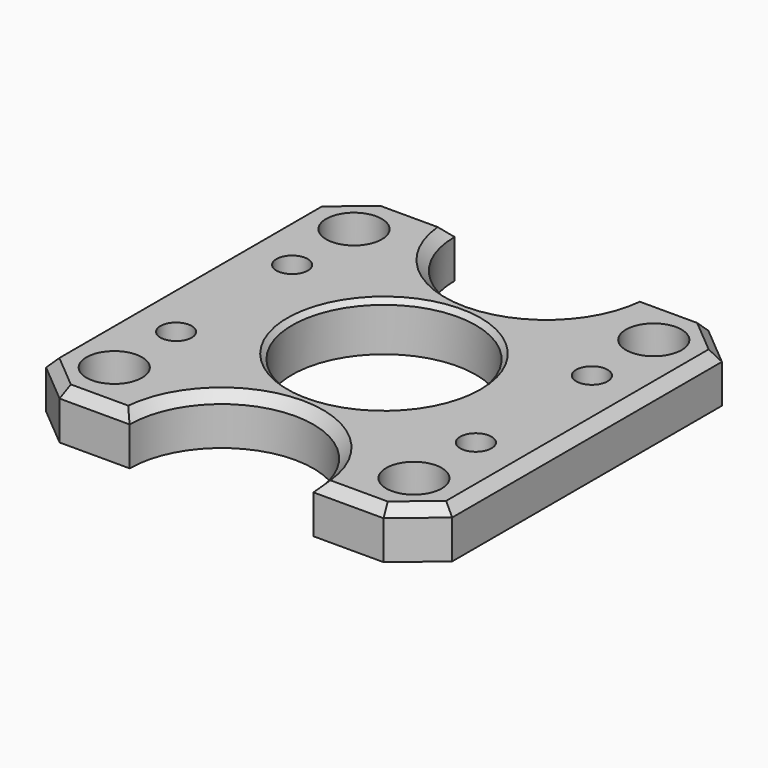
from build123d import *

# Parameters (mm, degrees)
SKETCH_R        = 9.5
SKETCH_R_2      = 1.75
PAD_DEPTH       = 5
POCKET_DEPTH    = 3
SKETCH002_R     = 1.625
POCKET001_DEPTH = 5.001
SKETCH003_R     = 2.875
POCKET002_DEPTH = 4.5
CHAMFER_SIZE    = 1
CHAMFER002_SIZE = 0.5


with BuildPart() as part:
    # Sketch → Pad (new body)
    with BuildSketch(Plane.XY):
        with BuildLine():
            Line((16.75, 21), (21, 17.433827))
            Line((21, 17.433827), (21, 0))
            Line((21, -17.433827), (21, 0))
            Line((16.75, -21), (21, -17.433827))
            Line((16.75, -21), (9.5, -21))
            ThreePointArc((9.5, -21), (0, -11.5), (-9.5, -21))
            Line((-16.75, -21), (-9.5, -21))
            Line((-21, -17.433827), (-16.75, -21))
            Line((-21, 0), (-21, -17.433827))
            Line((-21, 17.433827), (-21, 0))
            Line((-16.75, 21), (-21, 17.433827))
            Line((-16.75, 21), (-9.5, 21))
            ThreePointArc((-9.5, 21), (0, 11.5), (9.5, 21))
            Line((9.5, 21), (16.75, 21))
        make_face()
        Circle(SKETCH_R, mode=Mode.SUBTRACT)
        with Locations((-15.5, 15.5)):
            Circle(SKETCH_R_2, mode=Mode.SUBTRACT)
        with Locations((15.5, 15.5)):
            Circle(SKETCH_R_2, mode=Mode.SUBTRACT)
        with Locations((-15.5, -15.5)):
            Circle(SKETCH_R_2, mode=Mode.SUBTRACT)
        with Locations((15.5, -15.5)):
            Circle(SKETCH_R_2, mode=Mode.SUBTRACT)
    extrude(amount=PAD_DEPTH)

    # Sketch001 → Pocket (cut)
    with BuildSketch(Plane.XY):
        Polygon((-15.5, 4.2), (-12.642116, 5.85), (-12.642116, 9.15), (-15.5, 10.8), (-18.357884, 9.15), (-18.357884, 5.85), align=None)
        Polygon((-12.642116, -9.15), (-12.642116, -5.85), (-15.5, -4.2), (-18.357884, -5.85), (-18.357884, -9.15), (-15.5, -10.8), align=None)
        Polygon((18.357884, 5.85), (18.357884, 9.15), (15.5, 10.8), (12.642116, 9.15), (12.642116, 5.85), (15.5, 4.2), align=None)
        Polygon((18.357884, -9.15), (18.357884, -5.85), (15.5, -4.2), (12.642116, -5.85), (12.642116, -9.15), (15.5, -10.8), align=None)
    extrude(amount=POCKET_DEPTH, mode=Mode.SUBTRACT)

    # Sketch002 → Pocket001 (cut, through all)
    with BuildSketch(Plane.XY):
        with Locations((-15.5, 7.5)):
            Circle(SKETCH002_R)
        with Locations((15.5, 7.5)):
            Circle(SKETCH002_R)
        with Locations((15.5, -7.5)):
            Circle(SKETCH002_R)
        with Locations((-15.5, -7.5)):
            Circle(SKETCH002_R)
    extrude(amount=POCKET001_DEPTH, mode=Mode.SUBTRACT)

    # Sketch003 → Pocket002 (cut)
    with BuildSketch(Plane.XY.offset(5)):
        with Locations((-15.5, 15.5)):
            Circle(SKETCH003_R)
        with Locations((15.5, 15.5)):
            Circle(SKETCH003_R)
        with Locations((-15.5, -15.5)):
            Circle(SKETCH003_R)
        with Locations((15.5, -15.5)):
            Circle(SKETCH003_R)
    extrude(amount=-POCKET002_DEPTH, mode=Mode.SUBTRACT)

    # Chamfer
    chamfer_edges = [part.edges().sort_by_distance(p)[0] for p in [
        (-13.125, -21, 5),
        (-18.875, -19.216913, 5),
        (-21, -8.716913, 5),
        (-21, 8.716913, 5),
        (-18.875, 19.216913, 5),
        (-13.125, 21, 5),
        (0, 11.5, 5),
        (13.125, 21, 5),
        (18.875, 19.216913, 5),
        (21, 8.716913, 5),
        (21, -8.716913, 5),
        (0, -11.5, 5),
        (13.125, -21, 5),
        (18.875, -19.216913, 5),
    ]]
    chamfer(chamfer_edges, length=CHAMFER_SIZE)

    # Chamfer002
    chamfer002_edges = [part.edges().sort_by_distance(p)[0] for p in [
        (-9.5, 0, 5),
    ]]
    chamfer(chamfer002_edges, length=CHAMFER002_SIZE)


solid = part.part
